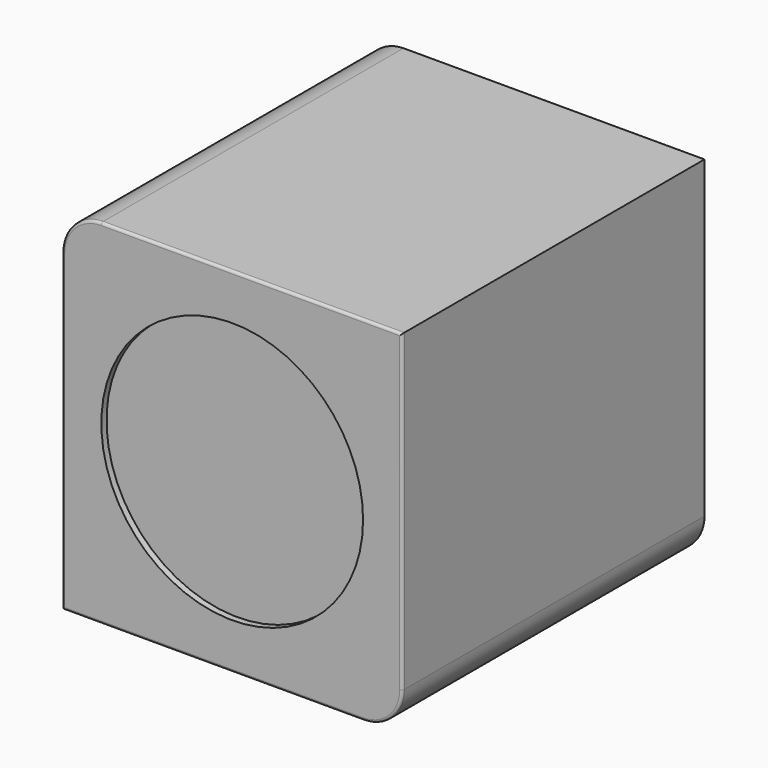
from build123d import *

# Parameters (mm, degrees)
F1_DEPTH = 290
F2_R     = 10
F3_DEPTH = 5
F4_R     = 2
F5_R     = 100
F6_DEPTH = 5


with BuildPart() as f1:
    # F0 (on Front) → F1 (new body)
    with BuildSketch(Plane.XZ):
        with BuildLine():
            Line((-130, -135), (100, -135))
            ThreePointArc((100, -135), (121.213203, -126.213203), (130, -105))
            Line((130, -105), (130, 135))
            Line((130, 135), (-100, 135))
            ThreePointArc((-100, 135), (-121.213203, 126.213203), (-130, 105))
            Line((-130, 105), (-130, -135))
        make_face()
    extrude(amount=-F1_DEPTH)

    # F2 (on face) → F3 (join)
    with BuildSketch(Plane(origin=(0, 0, -135), x_dir=(1, 0, 0), z_dir=(0, 0, -1))):
        with Locations((-75, -50)):
            Circle(F2_R)
        with Locations((75, -50)):
            Circle(F2_R)
        with Locations((75, -250)):
            Circle(F2_R)
        with Locations((-75, -250)):
            Circle(F2_R)
    extrude(amount=F3_DEPTH)

    # F4
    f4_edges = [f1.edges().sort_by_distance(p)[0] for p in [
        (-15, 0, -135),
        (121.213203, 0, -126.213203),
        (130, 0, 15),
        (15, 0, 135),
        (-121.213203, 0, 126.213203),
        (-130, 0, -15),
        (-15, 290, -135),
        (121.213203, 290, -126.213203),
        (130, 290, 15),
        (15, 290, 135),
        (-121.213203, 290, 126.213203),
        (-130, 290, -15),
    ]]
    fillet(f4_edges, radius=F4_R)

    # F5 (on face) → F6 (cut)
    with BuildSketch(Plane.XZ):
        Circle(F5_R)
    extrude(amount=-F6_DEPTH, mode=Mode.SUBTRACT)


solid = f1.part
